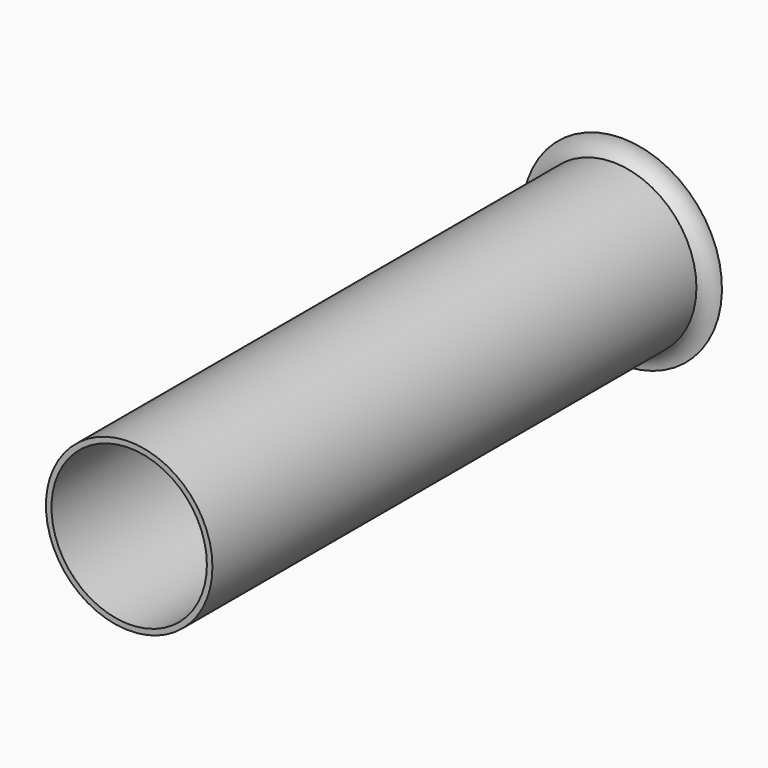
from build123d import *

# Parameters (mm, degrees)
F0_R     = 15
F1_DEPTH = 111
F2_R     = 14
F3_DEPTH = 111


with BuildPart() as f1:
    # F0 (on Front) → F1 (new body)
    with BuildSketch(Plane.XZ):
        Circle(F0_R)
    extrude(amount=F1_DEPTH)

    # F2 (on face) → F3 (cut)
    with BuildSketch(Plane.XZ.offset(111)):
        Circle(F2_R)
    extrude(amount=-F3_DEPTH, mode=Mode.SUBTRACT)

    # F4 (on Right) → F5 (revolve)
    with BuildSketch(Plane.YZ):
        with BuildLine():
            Line((-2, 15), (0, 15))
            Line((0, 15), (0, 18))
            ThreePointArc((0, 18), (-0.559736, 16.206491), (-2, 15))
        make_face()
    revolve(axis=Axis((0, -111, 0), (0, -1, 0)))


solid = f1.part
